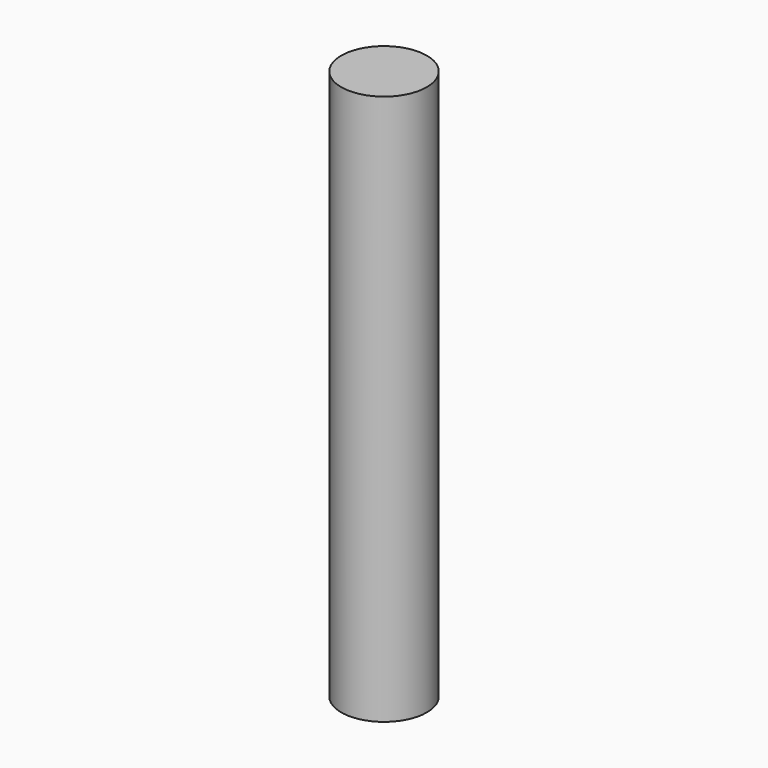
from build123d import *

# Parameters (mm, degrees)
F1_DEPTH  = 12.7
F2_DEPTH  = 12.7
F3_R      = 10.2599361316
F4_DEPTH  = 127
F5_DEPTH  = 25.4
F6_DEPTH  = 12.7
F7_DEPTH  = 2.54
F8_DEPTH  = 25.4
F9_DEPTH  = 25.4
F10_DEPTH = 5.08


with BuildPart() as f1:
    # F0 (on Front) → F1 (new body)
    with BuildSketch(Plane.XZ):
        Polygon((28.0411653221, -5.1526171155), (28.0411653221, 20.8860766143), (16.4345689118, 20.8860766143), (-16.3516514003, 20.8860766143), (-27.6816412807, 20.8860766143), (-27.6816412807, -5.1526171155), align=None)
        Polygon((16.4345689118, 20.8860766143), (28.0411653221, 20.8860766143), (36.4657826722, 27.4914167821), (42.8281202912, 10.9493397176), (91.7288586497, 81.2863186002), (43.9798757434, 34.9366031587), (42.0971289277, 52.180416882), align=None)
        Polygon((-27.6816412807, 20.8860766143), (-16.3516514003, 20.8860766143), (-42.1405397356, 52.1064698696), (-43.9977906644, 34.9366031587), (-91.8636098504, 81.2863186002), (-42.8677536547, 10.9493397176), (-36.362465471, 27.4914167821), align=None)
    extrude(amount=F1_DEPTH)

    # F2 (add): a face of the model
    f2_faces = [f1.faces().sort_by_distance(p)[0] for p in [
        (26.0119318683, 0, 7.8667297494),
    ]]
    extrude(f2_faces, amount=F2_DEPTH)

    # F3 (on face) → F4 (join)
    with BuildSketch(Plane(origin=(0, 0, -5.1526171155), x_dir=(1, 0, 0), z_dir=(0, 0, -1))):
        Circle(F3_R)
    extrude(amount=F4_DEPTH)

    # F5 (cut): a face of the model
    f5_faces = [f1.faces().sort_by_distance(p)[0] for p in [
        (0, 0, -132.1526171155),
    ]]
    extrude(f5_faces, amount=-F5_DEPTH, mode=Mode.SUBTRACT)

    # F6 (add): a face of the model
    f6_faces = [f1.faces().sort_by_distance(p)[0] for p in [
        (0, 0, -106.7526171155),
    ]]
    extrude(f6_faces, amount=F6_DEPTH)

    # F7 (cut): a face of the model
    f7_faces = [f1.faces().sort_by_distance(p)[0] for p in [
        (0, 0, -119.4526171155),
    ]]
    extrude(f7_faces, amount=-F7_DEPTH, mode=Mode.SUBTRACT)

    # F8 (cut): a face of the model
    f8_faces = [f1.faces().sort_by_distance(p)[0] for p in [
        (26.0119318683, -12.7, 7.8667297494),
    ]]
    extrude(f8_faces, amount=-F8_DEPTH, mode=Mode.SUBTRACT)

    # F9 (add): a face of the model
    f9_faces = [f1.faces().sort_by_distance(p)[0] for p in [
        (0, 0, -5.1526171155),
    ]]
    extrude(f9_faces, amount=F9_DEPTH)

    # F10 (cut): a face of the model
    f10_faces = [f1.faces().sort_by_distance(p)[0] for p in [
        (0, 0, 20.2473828845),
    ]]
    extrude(f10_faces, amount=-F10_DEPTH, mode=Mode.SUBTRACT)


solid = f1.part
